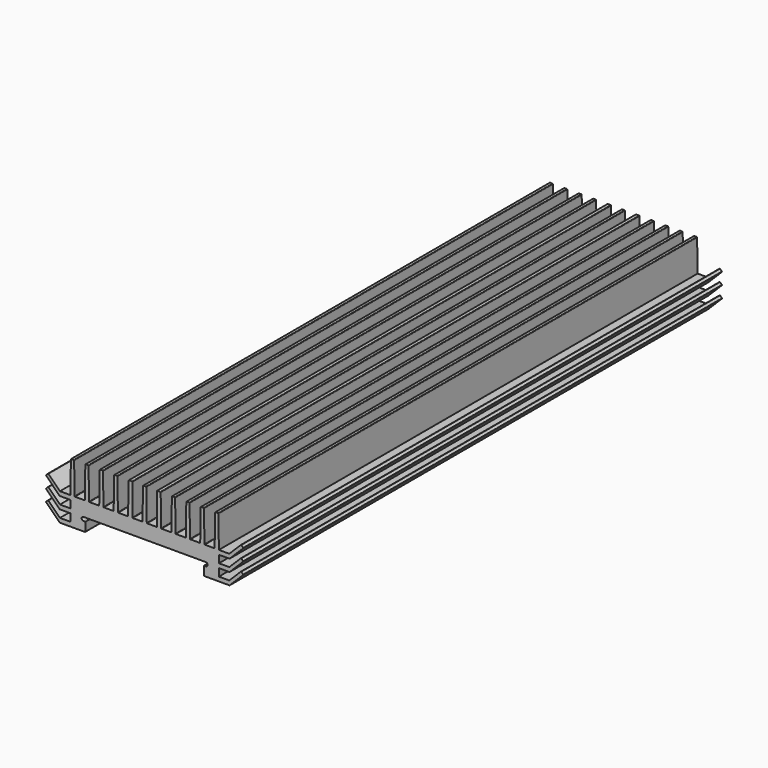
from build123d import *

# Parameters (mm, degrees)
F1_DEPTH = 280
F3_DEPTH = 280


with BuildPart() as f1:
    # F0 (on Front) → F1 (new body)
    with BuildSketch(Plane.XZ):
        with BuildLine():
            Line((-32.753272, 3.696673), (-32.996255, 18.303327))
            ThreePointArc((-32.996255, 18.303327), (-33.055987, 18.442593), (-33.196228, 18.5))
            Line((-33.196228, 18.5), (-34.302839, 18.5))
            ThreePointArc((-34.302839, 18.5), (-34.443074, 18.442597), (-34.502811, 18.303339))
            Line((-34.502811, 18.303339), (-34.745437, 3.773286))
            Line((-34.745437, 3.773286), (-34.745437, -9.5))
            Line((-34.745437, -9.5), (-27.946716, -9.5))
            ThreePointArc((-27.946716, -9.5), (-27.804468, -9.441877), (-27.745437, -9.300004))
            Line((-27.745437, -9.300004), (-27.745437, -5.252103))
            Line((-27.745437, -5.252103), (-28.620437, -5.252103))
            ThreePointArc((-28.620437, -5.252103), (-29.495437, -4.377103), (-28.620437, -3.502103))
            Line((-28.620437, -3.502103), (0, -3.502103))
            Line((0, -3.502103), (0, 18.497629))
            Line((0, 18.497629), (-0.55284, 18.497629))
            ThreePointArc((-0.55284, 18.497629), (-0.693076, 18.440226), (-0.752812, 18.300968))
            Line((-0.752812, 18.300968), (-0.996713, 3.694558))
            ThreePointArc((-0.996713, 3.694558), (-1.056449, 3.5553), (-1.196685, 3.497897))
            Line((-1.196685, 3.497897), (-5.550001, 3.497897))
            ThreePointArc((-5.550001, 3.497897), (-5.691423, 3.556475), (-5.750001, 3.697897))
            Line((-5.750001, 3.697897), (-5.750001, 18.3))
            ThreePointArc((-5.750001, 18.3), (-5.80858, 18.441421), (-5.950001, 18.5))
            Line((-5.950001, 18.5), (-7.302839, 18.5))
            ThreePointArc((-7.302839, 18.5), (-7.443074, 18.442597), (-7.502811, 18.303339))
            Line((-7.502811, 18.303339), (-7.746716, 3.696661))
            ThreePointArc((-7.746716, 3.696661), (-7.806452, 3.557403), (-7.946688, 3.5))
            Line((-7.946688, 3.5), (-12.303299, 3.5))
            ThreePointArc((-12.303299, 3.5), (-12.44354, 3.557407), (-12.503272, 3.696673))
            Line((-12.503272, 3.696673), (-12.746255, 18.303327))
            ThreePointArc((-12.746255, 18.303327), (-12.805987, 18.442593), (-12.946228, 18.5))
            Line((-12.946228, 18.5), (-14.052839, 18.5))
            ThreePointArc((-14.052839, 18.5), (-14.193074, 18.442597), (-14.252811, 18.303339))
            Line((-14.252811, 18.303339), (-14.496716, 3.696661))
            ThreePointArc((-14.496716, 3.696661), (-14.556452, 3.557403), (-14.696688, 3.5))
            Line((-14.696688, 3.5), (-19.053299, 3.5))
            ThreePointArc((-19.053299, 3.5), (-19.19354, 3.557407), (-19.253272, 3.696673))
            Line((-19.253272, 3.696673), (-19.496255, 18.303327))
            ThreePointArc((-19.496255, 18.303327), (-19.555987, 18.442593), (-19.696228, 18.5))
            Line((-19.696228, 18.5), (-20.802839, 18.5))
            ThreePointArc((-20.802839, 18.5), (-20.943074, 18.442597), (-21.002811, 18.303339))
            Line((-21.002811, 18.303339), (-21.246716, 3.696661))
            ThreePointArc((-21.246716, 3.696661), (-21.306452, 3.557403), (-21.446688, 3.5))
            Line((-21.446688, 3.5), (-25.803299, 3.5))
            ThreePointArc((-25.803299, 3.5), (-25.94354, 3.557407), (-26.003272, 3.696673))
            Line((-26.003272, 3.696673), (-26.246255, 18.303327))
            ThreePointArc((-26.246255, 18.303327), (-26.305987, 18.442593), (-26.446228, 18.5))
            Line((-26.446228, 18.5), (-27.552839, 18.5))
            ThreePointArc((-27.552839, 18.5), (-27.693074, 18.442597), (-27.752811, 18.303339))
            Line((-27.752811, 18.303339), (-27.996716, 3.696661))
            ThreePointArc((-27.996716, 3.696661), (-28.056452, 3.557403), (-28.196688, 3.5))
            Line((-28.196688, 3.5), (-32.553299, 3.5))
            ThreePointArc((-32.553299, 3.5), (-32.69354, 3.557407), (-32.753272, 3.696673))
        make_face()
    extrude(amount=F1_DEPTH)

    # F2 (on face) → F3 (join)
    with BuildSketch(Plane.XZ.offset(280)):
        with BuildLine():
            Line((-34.745437, -9.5), (-34.745437, -7.503925))
            Line((-34.745437, -7.503925), (-39.537348, -7.503925))
            ThreePointArc((-39.537348, -7.503925), (-39.613885, -7.488701), (-39.678769, -7.445347))
            Line((-39.678769, -7.445347), (-44.99513, -2.128986))
            ThreePointArc((-44.99513, -2.128986), (-45.136552, -2.070407), (-45.277973, -2.128986))
            Line((-45.277973, -2.128986), (-46.055791, -2.906803))
            ThreePointArc((-46.055791, -2.906803), (-46.114369, -3.048225), (-46.055791, -3.189646))
            Line((-46.055791, -3.189646), (-39.804015, -9.441421))
            ThreePointArc((-39.804015, -9.441421), (-39.739131, -9.484776), (-39.662594, -9.5))
            Line((-39.662594, -9.5), (-34.745437, -9.5))
        make_face()
        with BuildLine():
            Line((-34.745437, -4), (-34.745437, -2.003925))
            Line((-34.745437, -2.003925), (-39.537348, -2.003925))
            ThreePointArc((-39.537348, -2.003925), (-39.613885, -1.988701), (-39.678769, -1.945347))
            Line((-39.678769, -1.945347), (-44.99513, 3.371014))
            ThreePointArc((-44.99513, 3.371014), (-45.136552, 3.429593), (-45.277973, 3.371014))
            Line((-45.277973, 3.371014), (-46.055791, 2.593197))
            ThreePointArc((-46.055791, 2.593197), (-46.114369, 2.451775), (-46.055791, 2.310354))
            Line((-46.055791, 2.310354), (-39.804015, -3.941421))
            ThreePointArc((-39.804015, -3.941421), (-39.739131, -3.984776), (-39.662594, -4))
            Line((-39.662594, -4), (-34.745437, -4))
        make_face()
        with BuildLine():
            Line((-34.745437, 1.5), (-34.745437, 3.496075))
            Line((-34.745437, 3.496075), (-39.537348, 3.496075))
            ThreePointArc((-39.537348, 3.496075), (-39.613885, 3.511299), (-39.678769, 3.554653))
            Line((-39.678769, 3.554653), (-44.99513, 8.871014))
            ThreePointArc((-44.99513, 8.871014), (-45.136552, 8.929593), (-45.277973, 8.871014))
            Line((-45.277973, 8.871014), (-46.055791, 8.093197))
            ThreePointArc((-46.055791, 8.093197), (-46.114369, 7.951775), (-46.055791, 7.810354))
            Line((-46.055791, 7.810354), (-39.804015, 1.558579))
            ThreePointArc((-39.804015, 1.558579), (-39.739131, 1.515224), (-39.662594, 1.5))
            Line((-39.662594, 1.5), (-34.745437, 1.5))
        make_face()
    extrude(amount=-F3_DEPTH)

    # F4: F1 across face


with BuildPart() as f1_1:
    add(f1.part)
    add(f1.part.mirror(Plane(origin=(0, -140, 7.497763), x_dir=(0, 1, 0), z_dir=(1, 0, 0))))


solid = f1_1.part
